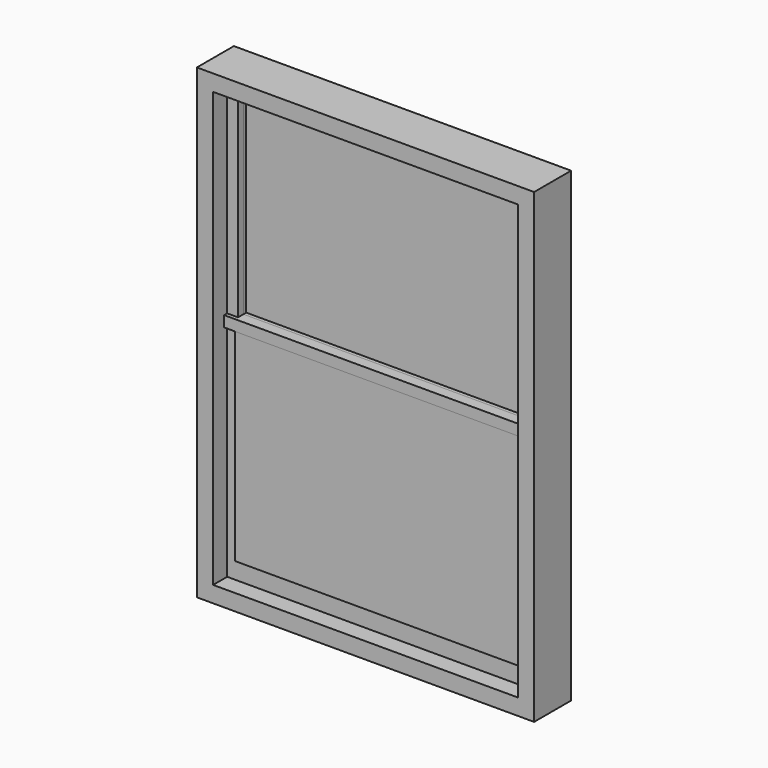
from build123d import *

# Parameters (mm, degrees)
F0_W          = 1247
F0_H          = 1725
F1_DEPTH      = 146
F1_DEPTH_BACK = 25
F0_W_2        = 1047
F0_H_2        = 707.5
F2_DEPTH      = 56
F3_START      = 56
F3_DEPTH      = 25
F4_START      = 1
F0_W_3        = 327
F0_H_3        = 329.75
F0_W_4        = 18
F4_DEPTH      = 17
F6_START      = 55
F5_W          = 1047
F5_H          = 747.5
F5_W_2        = 327
F5_H_2        = 349.75
F5_W_3        = 672
F6_DEPTH      = 15
F0_H_4        = 747.5
F0_H_5        = 349.75
F7_SIZE2      = 12.670755226
F7_SIZE       = 80
F8_W          = 1047
F8_H          = 747.5
F8_W_2        = 327
F8_H_2        = 349.75
F8_W_3        = 672
F9_DEPTH      = 25
F10_DEPTH     = 25
F12_DEPTH     = 14
F13_W         = 1047
F13_H         = 707.5
F14_DEPTH     = 25


with BuildPart() as f1:
    # F0 (on Front) → F1 (new body, two sides)
    with BuildSketch(Plane.XZ) as f1_sk:
        with Locations((-623.5, 862.5)):
            Rectangle(F0_W, F0_H)
        Polygon((-1187, 1665), (-60, 1665), (-60, 877.5), (-60, 60), (-1187, 60), (-1187, 877.5), align=None, mode=Mode.SUBTRACT)
    extrude(amount=F1_DEPTH)
    extrude(f1_sk.sketch, amount=-F1_DEPTH_BACK)

    # F7
    f7_edges = [f1.edges().sort_by_distance(p)[0] for p in [
        (-623.5, 25, 60),
    ]]
    f7_side = f1.faces().sort_by_distance((-623.5, -60.5, 60))[0]
    chamfer(f7_edges, length=F7_SIZE, length2=F7_SIZE2, reference=f7_side)


with BuildPart() as f2:
    # F0 (on Front) → F2 (new body)
    with BuildSketch(Plane.XZ):
        Polygon((-60, 877.5), (-60, 1665), (-1187, 1665), (-1187, 877.5), (-1147, 877.5), (-100, 877.5), align=None)
        with Locations((-623.5, 1271.25)):
            Rectangle(F0_W_2, F0_H_2, mode=Mode.SUBTRACT)
    extrude(amount=F2_DEPTH)


with BuildPart() as f3:
    # F0 (on Front) → F3 (new body)
    with BuildSketch(Plane.XZ.offset(F3_START)):
        Polygon((-60, 60), (-60, 877.5), (-100, 877.5), (-100, 130), (-1147, 130), (-1147, 877.5), (-1187, 877.5), (-1187, 60), align=None)
    extrude(amount=F3_DEPTH)


with BuildPart() as f4:
    # F0 (on Front) → F4 (new body)
    with BuildSketch(Plane.XZ.offset(F4_START)):
        with Locations((-623.5, 1271.25)):
            Rectangle(F0_W_2, F0_H_2)
        with Locations((-968.5, 1097.375)):
            Rectangle(F0_W_3, F0_H_3, mode=Mode.SUBTRACT)
        with Locations((-968.5, 1445.125)):
            Rectangle(F0_W_3, F0_H_3, mode=Mode.SUBTRACT)
        Polygon((-442, 1262.25), (-115, 1262.25), (-115, 932.5), (-442, 932.5), (-460, 932.5), (-787, 932.5), (-787, 1262.25), (-460, 1262.25), align=None, mode=Mode.SUBTRACT)
        with Locations((-623.5, 1445.125)):
            Rectangle(F0_W_3, F0_H_3, mode=Mode.SUBTRACT)
        with Locations((-278.5, 1445.125)):
            Rectangle(F0_W_3, F0_H_3, mode=Mode.SUBTRACT)
        with Locations((-451, 1097.375)):
            Rectangle(F0_W_4, F0_H_3)
    extrude(amount=F4_DEPTH)


with BuildPart() as f6:
    # F5 (on face) → F6 (new body)
    with BuildSketch(Plane.XZ.offset(F6_START)):
        with Locations((-623.5, 503.75)):
            Rectangle(F5_W, F5_H)
        with Locations((-968.5, 319.875)):
            Rectangle(F5_W_2, F5_H_2, mode=Mode.SUBTRACT)
        with Locations((-451, 319.875)):
            Rectangle(F5_W_3, F5_H_2, mode=Mode.SUBTRACT)
        with Locations((-968.5, 687.625)):
            Rectangle(F5_W_2, F5_H_2, mode=Mode.SUBTRACT)
        with Locations((-451, 687.625)):
            Rectangle(F5_W_3, F5_H_2, mode=Mode.SUBTRACT)
    extrude(amount=F6_DEPTH)


with BuildPart() as f6b:
    # F0 (on Front) → F6, piece 2 (new body)
    with BuildSketch(Plane.XZ.offset(F6_START)):
        with Locations((-623.5, 503.75)):
            Rectangle(F0_W_2, F0_H_4)
        with Locations((-968.5, 319.875)):
            Rectangle(F0_W_3, F0_H_5, mode=Mode.SUBTRACT)
        Polygon((-787, 145), (-787, 494.75), (-464.6128919861, 494.75), (-469, 145), align=None, mode=Mode.SUBTRACT)
        with Locations((-968.5, 687.625)):
            Rectangle(F0_W_3, F0_H_5, mode=Mode.SUBTRACT)
        Polygon((-446.6128919861, 494.75), (-115, 494.75), (-115, 145), (-451, 145), align=None, mode=Mode.SUBTRACT)
        Polygon((-787, 512.75), (-787, 862.5), (-460, 862.5), (-464.3871080139, 512.75), align=None, mode=Mode.SUBTRACT)
        Polygon((-442, 862.5), (-115, 862.5), (-115, 512.75), (-446.3871080139, 512.75), align=None, mode=Mode.SUBTRACT)
    extrude(amount=F6_DEPTH)


with BuildPart() as f9:
    # F8 (on face) → F9 (new body)
    with BuildSketch(Plane.XZ.offset(70)):
        with Locations((-623.5, 503.75)):
            Rectangle(F8_W, F8_H)
        with Locations((-968.5, 319.875)):
            Rectangle(F8_W_2, F8_H_2, mode=Mode.SUBTRACT)
        with Locations((-451, 319.875)):
            Rectangle(F8_W_3, F8_H_2, mode=Mode.SUBTRACT)
        with Locations((-968.5, 687.625)):
            Rectangle(F8_W_2, F8_H_2, mode=Mode.SUBTRACT)
        with Locations((-451, 687.625)):
            Rectangle(F8_W_3, F8_H_2, mode=Mode.SUBTRACT)
        with Locations((-968.5, 687.625)):
            Rectangle(F8_W_2, F8_H_2)
        with Locations((-451, 687.625)):
            Rectangle(F8_W_3, F8_H_2)
        with Locations((-968.5, 319.875)):
            Rectangle(F8_W_2, F8_H_2)
        with Locations((-451, 319.875)):
            Rectangle(F8_W_3, F8_H_2)
    extrude(amount=F9_DEPTH)


with BuildPart() as f10:
    # F10 (new): a face of the model
    f10_faces = [f2.part.faces().sort_by_distance(p)[0] for p in [
        (-73.7487644899, -56, 1271.25),
    ]]
    extrude(f10_faces, amount=F10_DEPTH)

    # F11 (on face) → F12 (join, through all)
    with BuildSketch(Plane.XZ.offset(81)):
        Polygon((-100, 917.5), (-1147, 917.5), (-1187, 917.5), (-1187, 877.5), (-60, 877.5), (-60, 917.5), align=None)
    extrude(amount=F12_DEPTH)


with BuildPart() as f14:
    # F13 (on face) → F14 (new body)
    with BuildSketch(Plane.XZ.offset(18)):
        with Locations((-623.5, 1271.25)):
            Rectangle(F13_W, F13_H)
        with Locations((-623.5, 1271.25)):
            Rectangle(F13_W, F13_H)
        with Locations((-623.5, 1271.25)):
            Rectangle(F13_W, F13_H)
        with Locations((-623.5, 1271.25)):
            Rectangle(F13_W, F13_H)
        with Locations((-623.5, 1271.25)):
            Rectangle(F13_W, F13_H)
        with Locations((-623.5, 1271.25)):
            Rectangle(F13_W, F13_H)
    extrude(amount=F14_DEPTH)


solid = Compound([f1.part, f2.part, f3.part, f4.part, f6.part, f6b.part, f9.part, f10.part, f14.part])
